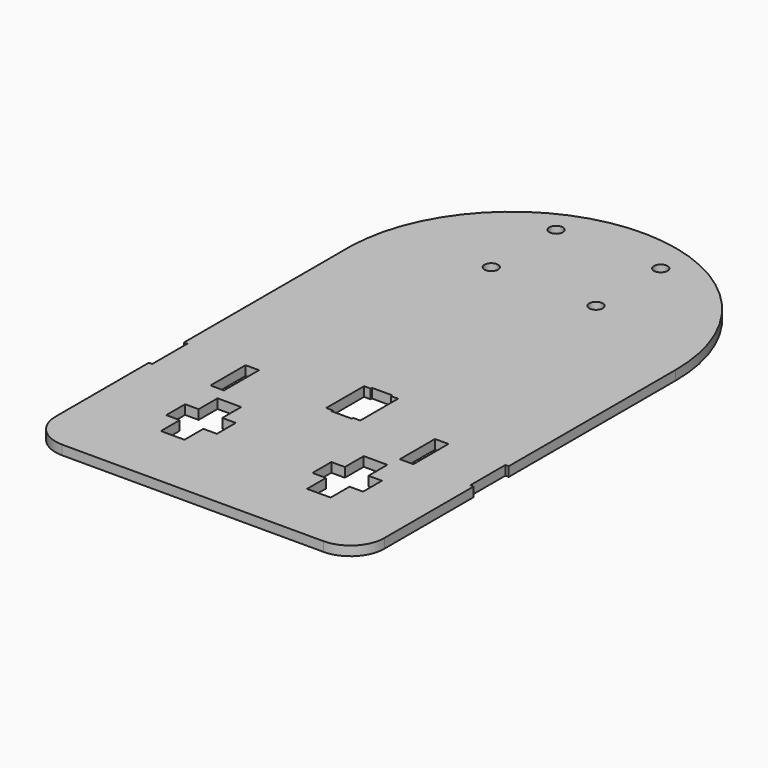
from build123d import *

# Parameters (mm, degrees)
SKETCH001_R = 2
SKETCH001_W = 4
SKETCH001_H = 13
PAD_DEPTH   = 2.8
FILLET_R    = 10
FILLET001_R = 10


with BuildPart() as part:
    # Sketch001 → Pad (new body)
    with BuildSketch(Plane.XY):
        with BuildLine():
            Line((48.718334, -1.052358), (47.718334, -1.052358))
            Line((47.718334, -1.052358), (47.718334, -14.052358))
            Line((47.718334, -14.052358), (48.718364, -14.052358))
            Line((48.718364, -14.052358), (48.718364, -57.149485))
            Line((-48.693828, -57.149485), (48.718364, -57.149485))
            Line((-48.693828, -57.149485), (-48.693828, -12.562763))
            Line((-48.693828, -12.562763), (-47.693828, -12.562763))
            Line((-47.693828, 0.437237), (-47.693828, -12.562763))
            Line((-48.693828, 0.437237), (-47.693828, 0.437237))
            Line((-48.693828, 0.437237), (-48.693828, 62.459473))
            ThreePointArc((48.718334, 60.727454), (0.866096, 109.615293), (-48.693828, 62.459473))
            Line((48.718334, -1.052358), (48.718334, 60.727454))
        make_face()
        with Locations((-16.731984, 74.31012)):
            Circle(SKETCH001_R, mode=Mode.SUBTRACT)
        with Locations((14.268016, 74.31012)):
            Circle(SKETCH001_R, mode=Mode.SUBTRACT)
        with Locations((-16.731984, 98.31012)):
            Circle(SKETCH001_R, mode=Mode.SUBTRACT)
        with Locations((14.268016, 98.31012)):
            Circle(SKETCH001_R, mode=Mode.SUBTRACT)
        with Locations((28.860233, -7.552358)):
            Rectangle(SKETCH001_W, SKETCH001_H, mode=Mode.SUBTRACT)
        with Locations((-28.454098, -6.062763)):
            Rectangle(SKETCH001_W, SKETCH001_H, mode=Mode.SUBTRACT)
        Polygon((7.593316, 9.361636), (7.593316, -4.638364), (5.519069, -4.638364), (5.519069, -5.138364), (-0.480931, -5.138364), (-0.480931, -4.638364), (-2.480931, -4.638364), (-2.480931, 9.361636), (-0.515563, 9.361636), (-0.515563, 9.861636), (5.484437, 9.861636), (5.484437, 9.361636), align=None, mode=Mode.SUBTRACT)
        Polygon((26.360233, -18.052358), (19.360233, -18.052358), (19.360233, -25.052358), (15.360233, -25.052358), (15.360233, -32.052358), (19.360233, -32.052358), (19.360233, -39.052358), (26.360233, -39.052358), (26.360233, -32.052358), (30.360233, -32.052358), (30.360233, -25.052358), (26.360233, -25.052358), align=None, mode=Mode.SUBTRACT)
        Polygon((-25.153265, -16.562763), (-25.153265, -23.562763), (-29.153265, -23.562763), (-29.153265, -30.562763), (-25.153265, -30.562763), (-25.153265, -37.562763), (-18.153265, -37.562763), (-18.153265, -30.562763), (-14.153265, -30.562763), (-14.153265, -23.562763), (-18.153265, -23.562763), (-18.153265, -16.562763), align=None, mode=Mode.SUBTRACT)
    extrude(amount=PAD_DEPTH)

    # Fillet
    fillet_edges = [part.edges().sort_by_distance(p)[0] for p in [
        (48.718364, -57.149485, 1.4),
    ]]
    fillet(fillet_edges, radius=FILLET_R)

    # Fillet001
    fillet001_edges = [part.edges().sort_by_distance(p)[0] for p in [
        (-48.693828, -57.149485, 1.4),
    ]]
    fillet(fillet001_edges, radius=FILLET001_R)


solid = part.part
